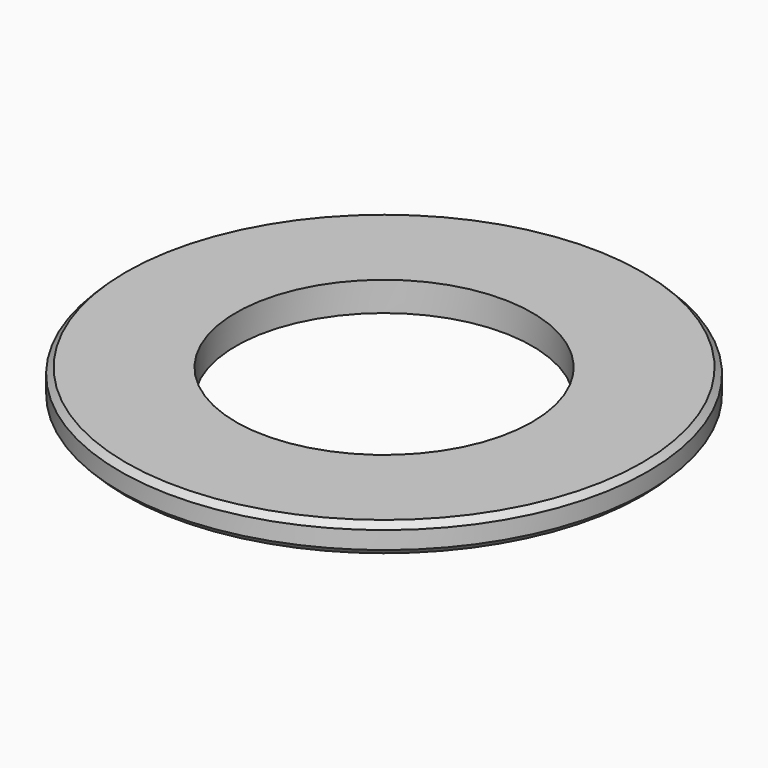
from build123d import *

# Parameters (mm, degrees)
F0_R     = 45
F0_R_2   = 25.25
F1_DEPTH = 2.5
F2_SIZE  = 1


with BuildPart() as f1:
    # F0 (on Top) → F1 (new body, symmetric)
    with BuildSketch(Plane.XY):
        Circle(F0_R)
        Circle(F0_R_2, mode=Mode.SUBTRACT)
    extrude(amount=F1_DEPTH, both=True)

    # F2
    f2_edges = [f1.edges().sort_by_distance(p)[0] for p in [
        (-45, 0, -2.5),
        (45, 0, 0),
        (-45, 0, 2.5),
    ]]
    chamfer(f2_edges, length=F2_SIZE)


solid = f1.part
